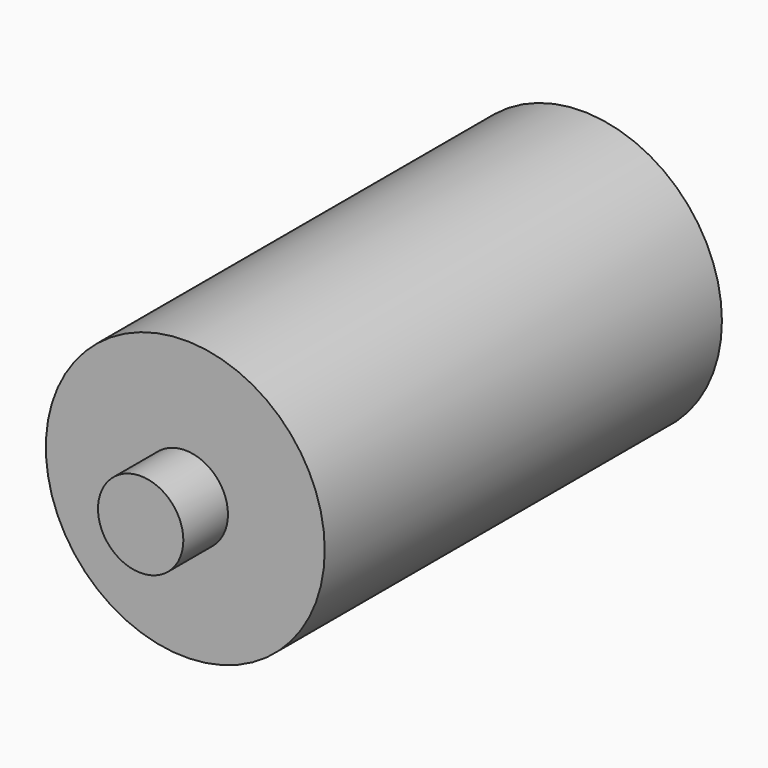
from build123d import *

# Parameters (mm, degrees)
F0_R     = 25
F1_DEPTH = 44.5
F2_R     = 7.65
F3_DEPTH = 10
F4_R     = 7.65
F5_DEPTH = 10


with BuildPart() as f1:
    # F0 (on Front) → F1 (new body, symmetric)
    with BuildSketch(Plane.XZ):
        Circle(F0_R)
    extrude(amount=F1_DEPTH, both=True)

    # F2 (on face) → F3 (join)
    with BuildSketch(Plane(origin=(0, 44.5, 0), x_dir=(-1, 0, 0), z_dir=(0, 1, 0))):
        Circle(F2_R)
    extrude(amount=F3_DEPTH)

    # F4 (on face) → F5 (join)
    with BuildSketch(Plane.XZ.offset(44.5)):
        Circle(F4_R)
    extrude(amount=F5_DEPTH)


solid = f1.part
